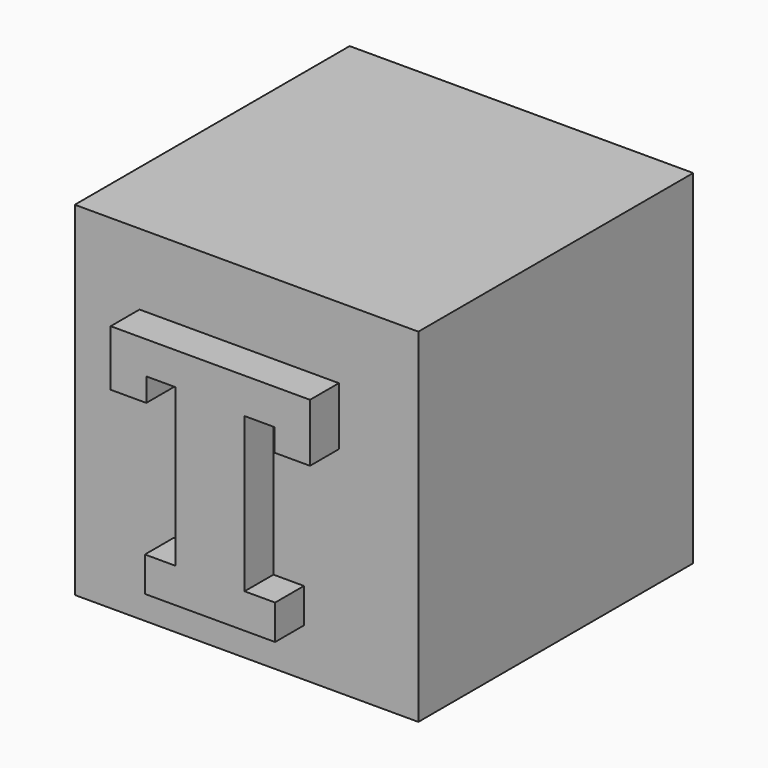
from build123d import *

# Parameters (mm, degrees)
F0_W          = 50.8
F0_H          = 50.8
F1_DEPTH      = 25.4
F3_DEPTH      = 30.734
F3_DEPTH_BACK = 30.734


with BuildPart() as f1:
    # F0 (on Front) → F1 (new body, symmetric)
    with BuildSketch(Plane.XZ):
        with Locations((1.353554, 5.163416)):
            Rectangle(F0_W, F0_H)
    extrude(amount=F1_DEPTH, both=True)

    # F2 (on Front) → F3 (join, two sides)
    with BuildSketch(Plane.XZ) as f3_sk:
        Polygon((-9.414995, -8.03412), (-9.414995, -13.168662), (9.839537, -13.168662), (9.839537, -8.03412), (5.325087, -8.03412), (5.325087, 14.777939), (9.73205, 14.777939), (9.73205, 11.445844), (14.998911, 11.445844), (14.998911, 20.03649), (-14.472356, 20.03649), (-14.472356, 11.759997), (-9.205497, 11.759997), (-9.205497, 15.216129), (-4.886171, 15.216129), (-4.886171, -8.03412), align=None)
    extrude(amount=F3_DEPTH)
    extrude(f3_sk.sketch, amount=-F3_DEPTH_BACK)


solid = f1.part
